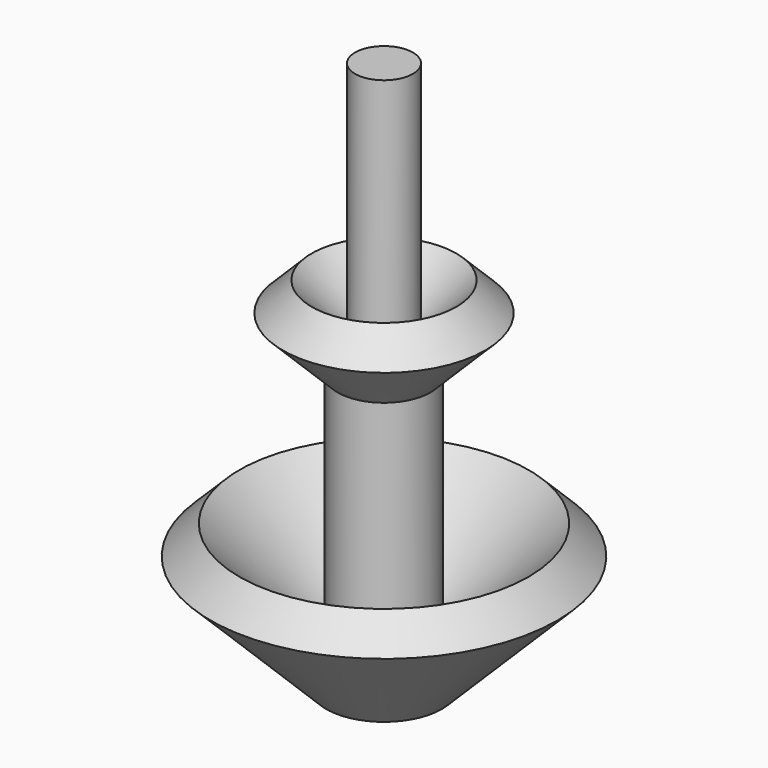
from build123d import *


with BuildPart() as part:
    # Sketch → Revolution (revolve)
    with BuildSketch(Plane.XZ):
        Polygon((0, 30), (5, 30), (5, 0), (10, 0), (30, 20), (25, 25), (8, 8), (8, 47.5), (17.5, 57), (12.5, 62), (5, 54.5), (5, 95), (0, 95), align=None)
    revolve(axis=Axis((0, 0, 0), (0, 0, 1)))


solid = part.part
